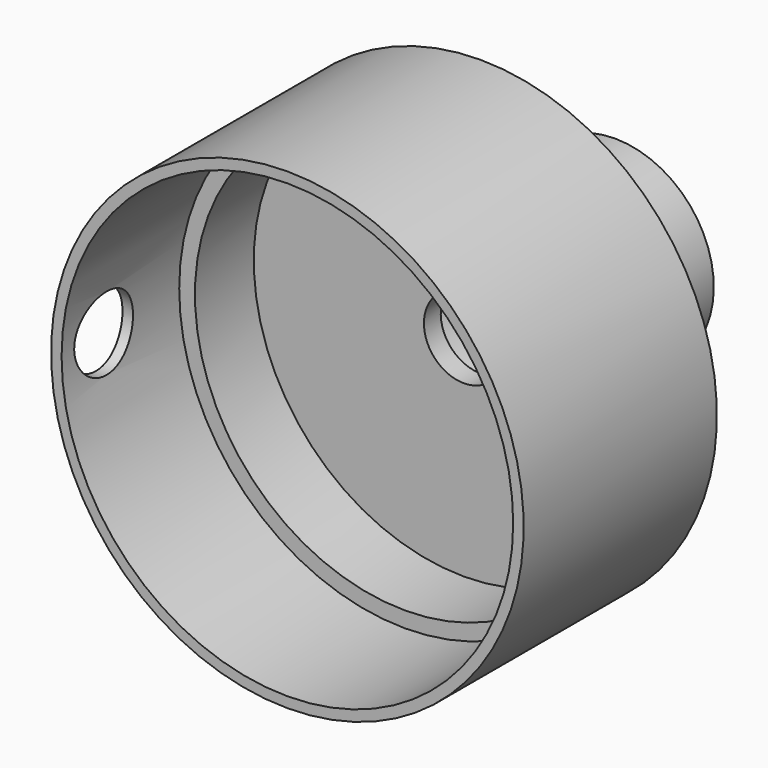
from build123d import *

# Parameters (mm, degrees)
F2_R     = 1.75
F3_DEPTH = 11.251


with BuildPart() as f1:
    # F0 (on Right) → F1 (revolve)
    with BuildSketch(Plane.YZ):
        Polygon((11.5, 11.25), (0, 11.25), (0, 10.75), (7, 10.75), (7, 10), (10.5, 10), (10.5, 1.9), (11.5, 1.9), (11.5, 4), (19.5, 4), (19.5, 4.7), (11.5, 4.7), align=None)
    revolve(axis=Axis((0, 13.454885, 0), (0, 1, 0)))

    # F2 (on Right) → F3 (cut, through all)
    with BuildSketch(Plane.YZ):
        with Locations((2.5, 0)):
            Circle(F2_R)
    extrude(amount=-F3_DEPTH, mode=Mode.SUBTRACT)


solid = f1.part
